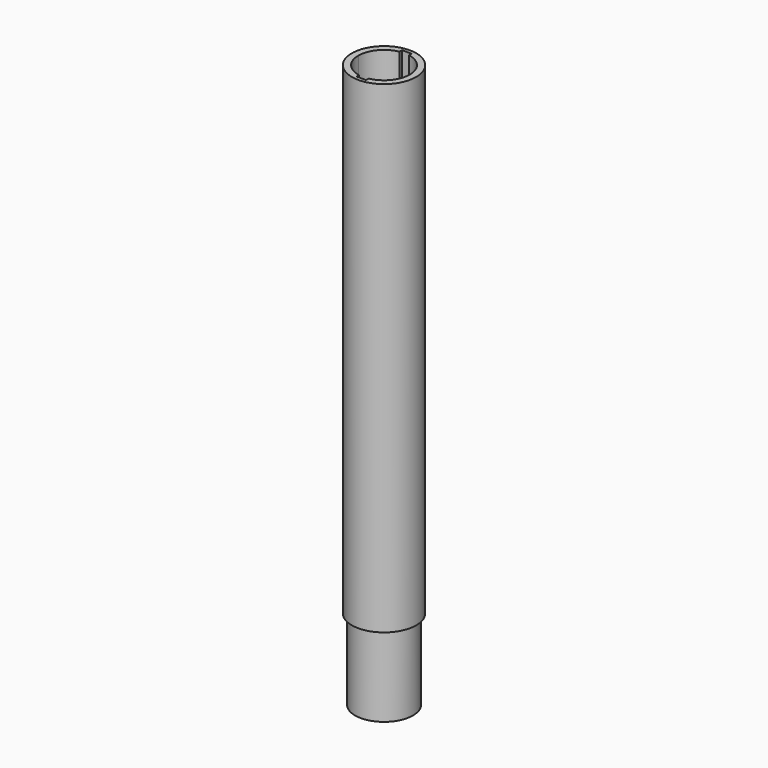
from build123d import *

# Parameters (mm, degrees)
F0_R     = 10
F0_R_2   = 9
F1_DEPTH = 150
F2_DEPTH = 25


with BuildPart() as f1:
    # F0 (on Top) → F1 (new body)
    with BuildSketch(Plane.XY):
        Circle(F0_R)
        Circle(F0_R_2, mode=Mode.SUBTRACT)
        Circle(F0_R_2)
        with BuildLine():
            ThreePointArc((1.5, 7.858117), (6.164414, 5.09902), (8, 0))
            ThreePointArc((8, 0), (6.164414, -5.09902), (1.5, -7.858117))
            Line((1.5, -7.858117), (1.5, -8.858117))
            Line((1.5, -8.858117), (-1.5, -8.858117))
            Line((-1.5, -8.858117), (-1.5, -7.858117))
            ThreePointArc((-1.5, -7.858117), (-6.164414, -5.09902), (-8, 0))
            ThreePointArc((-8, 0), (-6.164414, 5.09902), (-1.5, 7.858117))
            Line((-1.5, 7.858117), (-1.5, 8.858117))
            Line((-1.5, 8.858117), (1.5, 8.858117))
            Line((1.5, 8.858117), (1.5, 7.858117))
        make_face(mode=Mode.SUBTRACT)
    extrude(amount=F1_DEPTH)

    # F0 (on Top) → F2 (join)
    with BuildSketch(Plane.XY):
        Circle(F0_R_2)
        with BuildLine():
            ThreePointArc((1.5, 7.858117), (6.164414, 5.09902), (8, 0))
            ThreePointArc((8, 0), (6.164414, -5.09902), (1.5, -7.858117))
            Line((1.5, -7.858117), (1.5, -8.858117))
            Line((1.5, -8.858117), (-1.5, -8.858117))
            Line((-1.5, -8.858117), (-1.5, -7.858117))
            ThreePointArc((-1.5, -7.858117), (-6.164414, -5.09902), (-8, 0))
            ThreePointArc((-8, 0), (-6.164414, 5.09902), (-1.5, 7.858117))
            Line((-1.5, 7.858117), (-1.5, 8.858117))
            Line((-1.5, 8.858117), (1.5, 8.858117))
            Line((1.5, 8.858117), (1.5, 7.858117))
        make_face(mode=Mode.SUBTRACT)
    extrude(amount=-F2_DEPTH)


solid = f1.part
